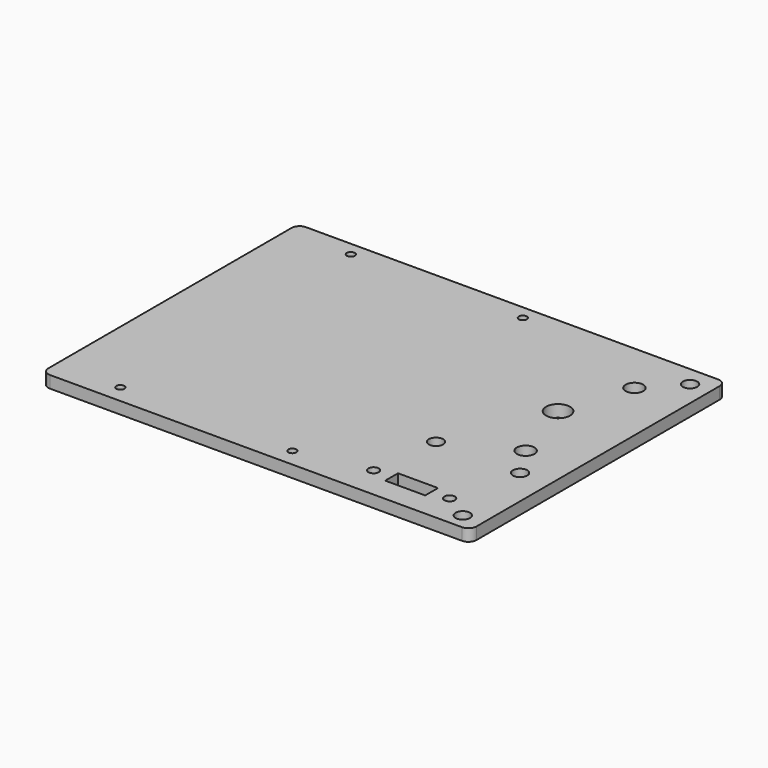
from build123d import *

# Parameters (mm, degrees)
CYLINDER001_R     = 1.8
CYLINDER001_DEPTH = 40
ARRAY002_X_COUNT  = 2
ARRAY002_X_PITCH  = 21
CYLINDER002_R     = 1
CYLINDER002_DEPTH = 100
ARRAY003_X_COUNT  = 2
ARRAY003_X_PITCH  = 43
ARRAY003_Y_COUNT  = 2
ARRAY003_Y_PITCH  = 72
CYLINDER003_R     = 1.8
CYLINDER003_DEPTH = 40
ARRAY004_Y_COUNT  = 2
ARRAY004_Y_PITCH  = 71
BOX005_W          = 4
BOX005_H          = 10
BOX005_DEPTH      = 40
CYLINDER004_R     = 2.2
CYLINDER004_DEPTH = 40
ARRAY005_Y_COUNT  = 2
ARRAY005_Y_PITCH  = 34
CYLINDER005_R     = 3
CYLINDER005_DEPTH = 40
CYLINDER_R        = 1.3
CYLINDER_DEPTH    = 40
ARRAY001_X_COUNT  = 2
ARRAY001_X_PITCH  = 19
BOX004_W          = 107
BOX004_H          = 80
BOX004_DEPTH      = 3
FILLET001_R       = 2


with BuildPart() as array002:
    # Cylinder001 → Cylinder001 (new body)
    with BuildSketch(Plane(origin=(75.5, 16.5, -15), x_dir=(1, 0, 0), z_dir=(0, 0, 1))):
        Circle(CYLINDER001_R)
    extrude(amount=CYLINDER001_DEPTH)

    # Array002 X: Array002 ×2


with BuildPart() as array002_1:
    add(array002.part)
    with Locations(*[(i * ARRAY002_X_PITCH, 0, 0) for i in range(1, ARRAY002_X_COUNT)]):
        add(array002.part)


with BuildPart() as array_battery_holder_holes:
    # Cylinder002 → Cylinder002 (new body)
    with BuildSketch(Plane(origin=(13, -4, -15), x_dir=(1, 0, 0), z_dir=(0, 0, 1))):
        Circle(CYLINDER002_R)
    extrude(amount=CYLINDER002_DEPTH)

    # Array003 X: Array battery holder holes ×2


with BuildPart() as array_battery_holder_holes_1:
    add(array_battery_holder_holes.part)
    with Locations(*[(i * ARRAY003_X_PITCH, 0, 0) for i in range(1, ARRAY003_X_COUNT)]):
        add(array_battery_holder_holes.part)

    # Array003 Y: Array battery holder holes ×2


with BuildPart() as array_battery_holder_holes_2:
    add(array_battery_holder_holes_1.part)
    with Locations(*[(0, i * ARRAY003_Y_PITCH, 0) for i in range(1, ARRAY003_Y_COUNT)]):
        add(array_battery_holder_holes_1.part)


with BuildPart() as array_corners:
    # Cylinder003 → Cylinder003 (new body)
    with BuildSketch(Plane(origin=(99, -4.5, -15), x_dir=(1, 0, 0), z_dir=(0, 0, 1))):
        Circle(CYLINDER003_R)
    extrude(amount=CYLINDER003_DEPTH)

    # Array004 Y: Array corners ×2


with BuildPart() as array_corners_1:
    add(array_corners.part)
    with Locations(*[(0, i * ARRAY004_Y_PITCH, 0) for i in range(1, ARRAY004_Y_COUNT)]):
        add(array_corners.part)


with BuildPart() as cube_switch_cut:
    # Box005 → Box005 (new body)
    with BuildSketch(Plane(origin=(78, 1.5, -10), x_dir=(0, -1, 0), z_dir=(0, 0, 1))):
        with Locations((2, 5)):
            Rectangle(BOX005_W, BOX005_H)
    extrude(amount=BOX005_DEPTH)


with BuildPart() as array_usb:
    # Cylinder004 → Cylinder004 (new body)
    with BuildSketch(Plane(origin=(91.5, 24.5, -15), x_dir=(1, 0, 0), z_dir=(0, 0, 1))):
        Circle(CYLINDER004_R)
    extrude(amount=CYLINDER004_DEPTH)

    # Array005 Y: Array usb ×2


with BuildPart() as array_usb_1:
    add(array_usb.part)
    with Locations(*[(0, i * ARRAY005_Y_PITCH, 0) for i in range(1, ARRAY005_Y_COUNT)]):
        add(array_usb.part)


with BuildPart() as cylinder_usb_center:
    # Cylinder005 → Cylinder005 (new body)
    with BuildSketch(Plane(origin=(86, 41.5, -15), x_dir=(1, 0, 0), z_dir=(0, 0, 1))):
        Circle(CYLINDER005_R)
    extrude(amount=CYLINDER005_DEPTH)


with BuildPart() as fusion001:
    # Cylinder → Cylinder (new body)
    with BuildSketch(Plane(origin=(73.5, -0.5, -15), x_dir=(0, -1, 0), z_dir=(0, 0, 1))):
        Circle(CYLINDER_R)
    extrude(amount=CYLINDER_DEPTH)

    # Array001 X: Fusion001 ×2


with BuildPart() as fusion001_1:
    add(fusion001.part)
    with Locations(*[(i * ARRAY001_X_PITCH, 0, 0) for i in range(1, ARRAY001_X_COUNT)]):
        add(fusion001.part)

    # Fusion001: union Array002, Array battery holder holes, Array corners, Cube switch cut, Array usb, Cylinder usb center
    add(array002_1.part)
    add(array_battery_holder_holes_2.part)
    add(array_corners_1.part)
    add(cube_switch_cut.part)
    add(array_usb_1.part)
    add(cylinder_usb_center.part)


with BuildPart() as top_lid_clone:
    # Box004 → Box004 (new body)
    with BuildSketch(Plane(origin=(-3, -8.5, -3), x_dir=(1, 0, 0), z_dir=(0, 0, 1))):
        with Locations((53.5, 40)):
            Rectangle(BOX004_W, BOX004_H)
    extrude(amount=BOX004_DEPTH)

    # Fillet001
    fillet001_edges = [top_lid_clone.edges().sort_by_distance(p)[0] for p in [
        (-3, -8.5, -1.5),
        (-3, 71.5, -1.5),
        (104, -8.5, -1.5),
        (104, 71.5, -1.5),
    ]]
    fillet(fillet001_edges, radius=FILLET001_R)

    # Cut001: cut Fusion001
    add(fusion001_1.part, mode=Mode.SUBTRACT)


solid = top_lid_clone.part
